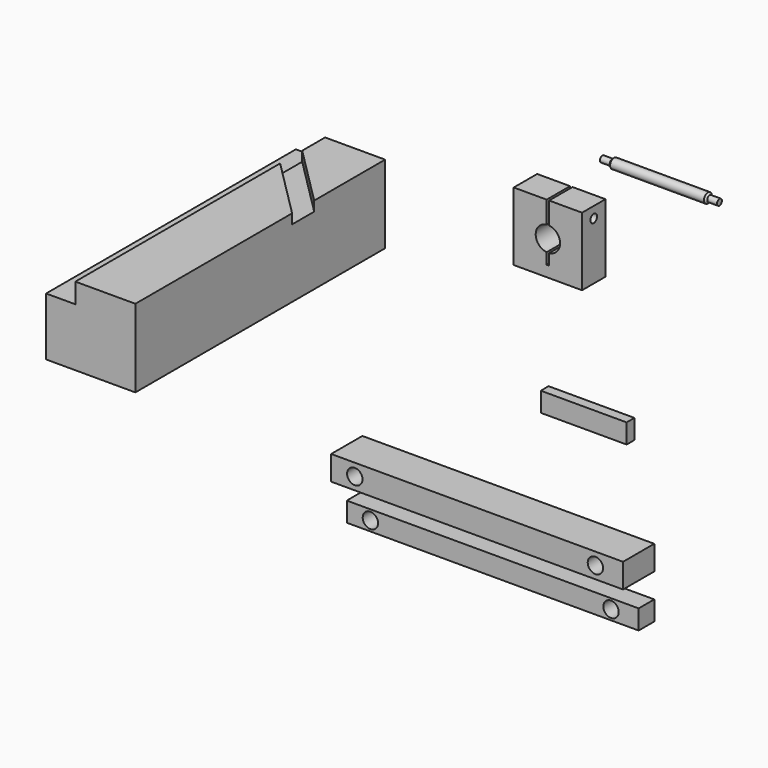
from build123d import *

# Parameters (mm, degrees)
F0_W           = 22.225
F0_H           = 22.225
F0_R           = 3.96875
F1_DEPTH       = 9.525
F3_D           = 2.7051
F3_CBORE_D     = 6.35
F3_CBORE_DEPTH = 5.969
F5_DEPTH       = 25.4
F8_W           = 94.996
F8_H           = 7.9375
F8_R           = 2.5
F9_DEPTH       = 12.7
F10_W          = 94.996
F10_H          = 6.35
F10_R          = 2.5
F11_DEPTH      = 6.35
F12_W          = 27.9375
F12_H          = 6.35
F13_DEPTH      = 3.175
F15_DEPTH      = 101.6
F17_DEPTH      = 3.175


with BuildPart() as f1:
    # F0 (on Front) → F1 (new body)
    with BuildSketch(Plane.XZ):
        with Locations((-55.231563729, 48.4803952456)):
            Rectangle(F0_W, F0_H)
        with Locations((-55.231563729, 48.4803952456)):
            Circle(F0_R, mode=Mode.SUBTRACT)
    extrude(amount=F1_DEPTH)

    # F3 (through all)
    with Locations(Plane(origin=(-66.344063729, 0, 0), x_dir=(0, -1, 0), z_dir=(-1, 0, 0))):
        with Locations((4.7625, 56.0210202456)):
            CounterBoreHole(F3_D / 2, F3_CBORE_D / 2, F3_CBORE_DEPTH)

    # F4 (on face) → F5 (cut)
    with BuildSketch(Plane.XZ.offset(9.525)):
        with BuildLine():
            Line((-54.834688729, 52.4292516366), (-54.834688729, 59.5928952456))
            Line((-54.834688729, 59.5928952456), (-55.628438729, 59.5928952456))
            Line((-55.628438729, 59.5928952456), (-55.628438729, 52.4292516366))
            ThreePointArc((-55.628438729, 52.4292516366), (-55.231563729, 52.4491452456), (-54.834688729, 52.4292516366))
        make_face()
        with BuildLine():
            Line((-54.834688729, 40.9397702456), (-54.834688729, 44.5315388545))
            ThreePointArc((-54.834688729, 44.5315388545), (-55.231563729, 44.5116452456), (-55.628438729, 44.5315388545))
            Line((-55.628438729, 44.5315388545), (-55.628438729, 40.9397702456))
            Line((-55.628438729, 40.9397702456), (-54.834688729, 40.9397702456))
        make_face()
    extrude(amount=-F5_DEPTH, mode=Mode.SUBTRACT)


with BuildPart() as f7:
    # F6 (on Front) → F7 (revolve)
    with BuildSketch(Plane.XZ):
        Polygon((-45.1088624105, 71.7809695899), (-45.1088624105, 70.7887820899), (-7.0088624105, 70.7887820899), (-7.0088624105, 71.7809695899), (-10.1838624105, 71.7809695899), (-10.7791749105, 72.3762820899), (-41.3385499105, 72.3762820899), (-41.9338624105, 71.7809695899), align=None)
    revolve(axis=Axis((-26.0588624105, 0, 70.7887820899), (1, 0, 0)))


with BuildPart() as f9:
    # F8 (on Front) → F9 (new body)
    with BuildSketch(Plane.XZ):
        with Locations((-75.7346581668, -37.9346387305)):
            Rectangle(F8_W, F8_H)
        with Locations((-115.5364581668, -37.9346387305)):
            Circle(F8_R, mode=Mode.SUBTRACT)
        with Locations((-37.2282581668, -37.9346387305)):
            Circle(F8_R, mode=Mode.SUBTRACT)
    extrude(amount=F9_DEPTH)


with BuildPart() as f11:
    # F10 (on Front) → F11 (new body)
    with BuildSketch(Plane.XZ):
        with Locations((-75.7346581668, -53.075885129)):
            Rectangle(F10_W, F10_H)
        with Locations((-115.5364581668, -53.075885129)):
            Circle(F10_R, mode=Mode.SUBTRACT)
        with Locations((-37.2282581668, -53.075885129)):
            Circle(F10_R, mode=Mode.SUBTRACT)
    extrude(amount=F11_DEPTH)


with BuildPart() as f13:
    # F12 (on Front) → F13 (new body)
    with BuildSketch(Plane.XZ):
        with Locations((-48.6561949255, -3.175)):
            Rectangle(F12_W, F12_H)
    extrude(amount=F13_DEPTH)


with BuildPart() as f15:
    # F14 (on Front) → F15 (new body)
    with BuildSketch(Plane.XZ):
        Polygon((-115.82578916, 47.6090334209), (-135.3601208026, 47.6090334209), (-135.3601208026, 41.1090334209), (-144.8851208026, 41.1090334209), (-144.8851208026, 22.2090334209), (-115.82578916, 22.2090334209), align=None)
    extrude(amount=F15_DEPTH)

    # F16 (on face) → F17 (cut)
    with BuildSketch(Plane.XY.offset(47.6090334209)):
        Polygon((-135.3601208026, -9.3197438789), (-135.3601208026, -18.3), (-115.82578916, -37.8343316426), (-115.82578916, -28.8540755215), align=None)
        Polygon((-135.3601208026, -9.3197438789), (-135.3601208026, -18.3), (-115.82578916, -37.8343316426), (-115.82578916, -28.8540755215), align=None)
    extrude(amount=-F17_DEPTH, mode=Mode.SUBTRACT)


solid = Compound([f1.part, f7.part, f9.part, f11.part, f13.part, f15.part])
